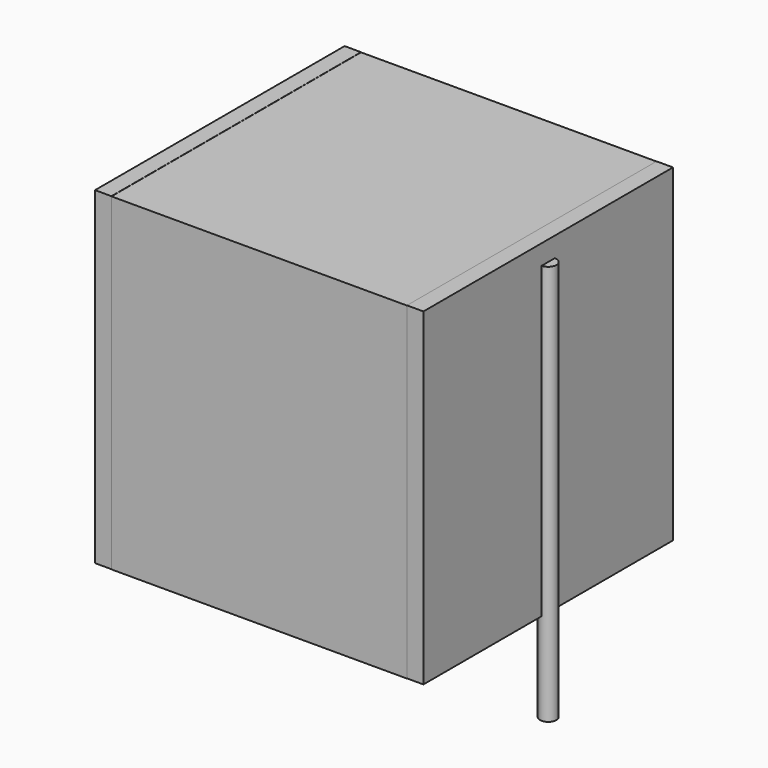
from build123d import *

# Parameters (mm, degrees)
SKETCH_W          = 9
SKETCH_H          = 9.5
PAD_DEPTH         = 10
SKETCH001_R       = 0.25
PAD001_DEPTH      = 9
PAD001_DEPTH_BACK = 3.2
SKETCH002_W       = 0.5
SKETCH002_H       = 9.5
PAD002_DEPTH      = 10


with BuildPart() as pad:
    # Sketch → Pad (new body)
    with BuildSketch(Plane.XY.offset(0.1)):
        with Locations((5, 0)):
            Rectangle(SKETCH_W, SKETCH_H)
    extrude(amount=PAD_DEPTH)


with BuildPart() as pad001:
    # Sketch001 → Pad001 (new body, two sides)
    with BuildSketch(Plane.XY.offset(0.5)) as pad001_sk:
        Circle(SKETCH001_R)
        with Locations((10, 0)):
            Circle(SKETCH001_R)
    extrude(amount=PAD001_DEPTH)
    extrude(pad001_sk.sketch, amount=-PAD001_DEPTH_BACK)


with BuildPart() as pad002:
    # Sketch002 → Pad002 (new body)
    with BuildSketch(Plane.XY.offset(0.105)):
        with Locations((0.25, 0)):
            Rectangle(SKETCH002_W, SKETCH002_H)
        with Locations((9.75, 0)):
            Rectangle(SKETCH002_W, SKETCH002_H)
    extrude(amount=PAD002_DEPTH)


solid = Compound([pad.part, pad001.part, pad002.part])
